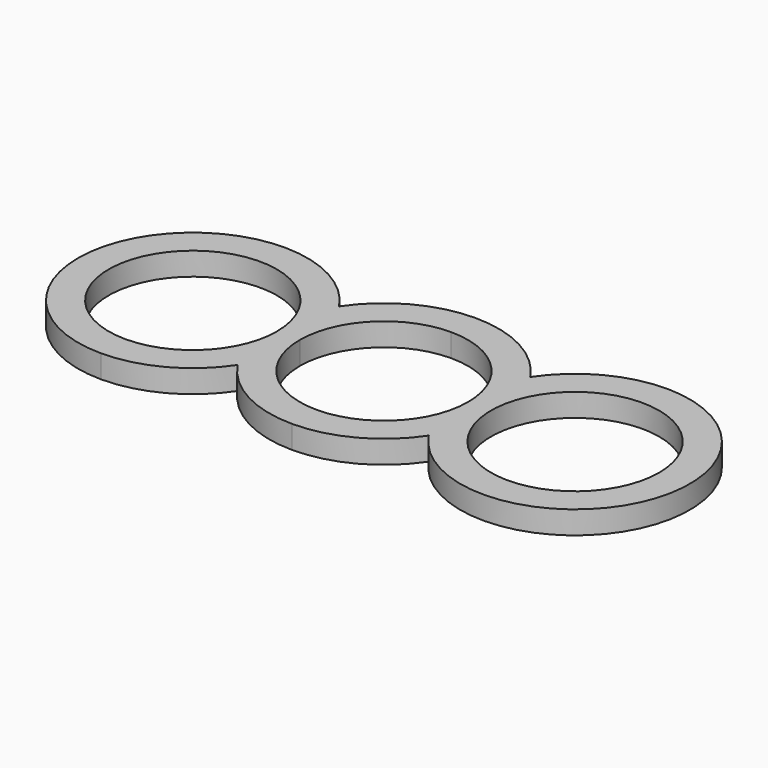
from build123d import *

# Parameters (mm, degrees)
F1_DEPTH = 3


with BuildPart() as f1:
    # F0 (on Top) → F1 (new body)
    with BuildSketch(Plane.XY):
        with BuildLine():
            ThreePointArc((-25, -15), (-17.9068141727, -13.2169101843), (-12.5, -8.2915619759))
            ThreePointArc((-12.5, -8.2915619759), (-7.0931858273, -13.2169101843), (0, -15))
            ThreePointArc((0, -15), (7.0931858273, -13.2169101843), (12.5, -8.2915619759))
            ThreePointArc((12.5, -8.2915619759), (40, 0), (12.5, 8.2915619759))
            ThreePointArc((12.5, 8.2915619759), (7.0931858273, 13.2169101843), (0, 15))
            ThreePointArc((0, 15), (-7.0931858273, 13.2169101843), (-12.5, 8.2915619759))
            ThreePointArc((-12.5, 8.2915619759), (-38.2169101843, 7.0931858273), (-25, -15))
        make_face()
        with BuildLine():
            ThreePointArc((-14, 0), (-17.2218254069, -7.7781745931), (-25, -11))
            ThreePointArc((-25, -11), (-32.7781745931, 7.7781745931), (-14, 0))
        make_face(mode=Mode.SUBTRACT)
        with BuildLine():
            ThreePointArc((-11, 0), (-7.7781745931, 7.7781745931), (0, 11))
            ThreePointArc((0, 11), (7.7781745931, 7.7781745931), (11, 0))
            ThreePointArc((11, 0), (7.7781745931, -7.7781745931), (0, -11))
            ThreePointArc((0, -11), (-7.7781745931, -7.7781745931), (-11, 0))
        make_face(mode=Mode.SUBTRACT)
        with BuildLine():
            ThreePointArc((14, 0), (25, 11), (36, 0))
            ThreePointArc((36, 0), (25, -11), (14, 0))
        make_face(mode=Mode.SUBTRACT)
    extrude(amount=F1_DEPTH)


solid = f1.part
